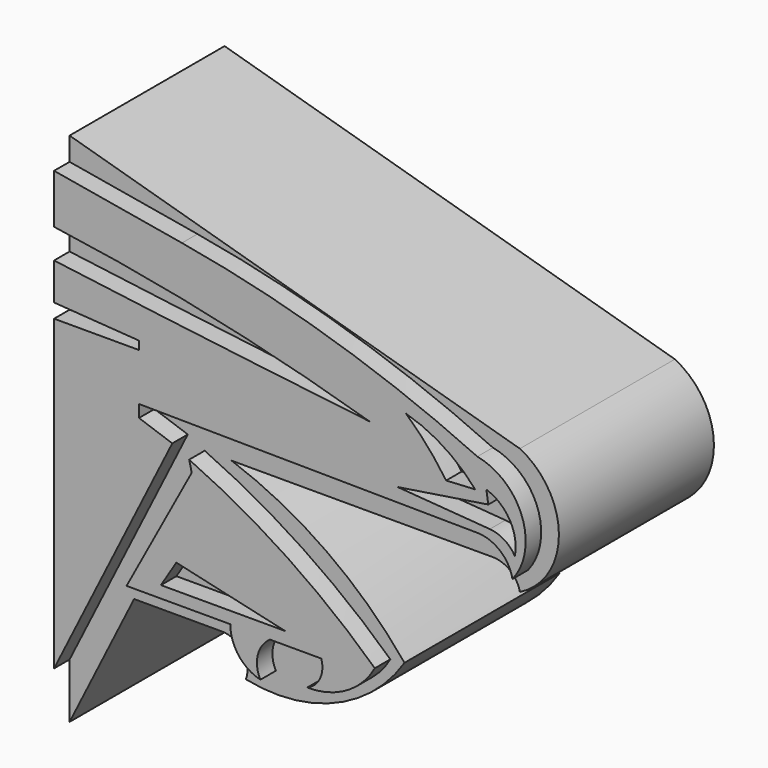
from build123d import *

# Parameters (mm, degrees)
F1_DEPTH = 25.4
F3_DEPTH = 2.54


with BuildPart() as f1:
    # F0 (on Front) → F1 (new body)
    with BuildSketch(Plane.XZ):
        with BuildLine():
            Line((4.675265, 38.648338), (4.675265, -29.022353))
            Line((4.675265, -29.022353), (13.136835, -12.086689))
            Line((13.136835, -12.086689), (24.644025, -12.086689))
            ThreePointArc((24.644025, -12.086689), (27.390181, -13.518342), (27.788887, -16.589504))
            ThreePointArc((27.788887, -16.589504), (39.534536, -15.492547), (48.578784, -7.918567))
            ThreePointArc((48.578784, -7.918567), (38.344977, 1.625304), (25.908433, 8.040027))
            Line((25.908433, 8.040027), (60.161997, 8.040027))
            ThreePointArc((60.161997, 8.040027), (62.441504, 7.233012), (63.705467, 5.171502))
            ThreePointArc((63.705467, 5.171502), (68.823481, 13.439604), (63.705467, 21.707706))
            Line((63.705467, 21.707706), (4.675265, 38.648338))
        make_face()
    extrude(amount=F1_DEPTH)

    # F2 (on face) → F3 (join)
    with BuildSketch(Plane.XZ.offset(25.4)):
        with BuildLine():
            ThreePointArc((4.675265, 29.146321), (25.516102, 25.450284), (46.005655, 20.141857))
            ThreePointArc((46.005655, 20.141857), (25.329763, 22.617176), (4.675265, 25.265086))
            Line((4.675265, 25.265086), (4.675265, 20.410509))
            Line((4.675265, 20.410509), (15.810639, 19.637108))
            Line((15.810639, 19.637108), (15.810639, 18.545922))
            Line((15.810639, 18.545922), (4.675265, 18.545922))
            Line((4.675265, 18.545922), (4.675265, -21.817246))
            Line((4.675265, -21.817246), (20.169701, 9.19456))
            Line((20.169701, 9.19456), (15.810639, 10.708986))
            Line((15.810639, 10.708986), (15.810639, 12.321869))
            Line((15.810639, 12.321869), (60.161997, 11.876815))
            ThreePointArc((60.161997, 11.876815), (63.147761, 10.778846), (64.766154, 8.040027))
            ThreePointArc((64.766154, 8.040027), (66.027213, 15.656968), (60.161997, 20.677656))
            ThreePointArc((60.161997, 20.677656), (41.195878, 27.981513), (21.435434, 32.733861))
            Line((21.435434, 32.733861), (4.675265, 35.614753))
            Line((4.675265, 35.614753), (4.675265, 29.146321))
        make_face()
        with BuildLine():
            Line((61.803415, 12.841351), (49.711283, 13.763633))
            Line((49.711283, 13.763633), (61.598465, 15.608195))
            Line((61.598465, 15.608195), (61.341725, 17.26274))
            ThreePointArc((61.341725, 17.26274), (64.422395, 14.726928), (65.082639, 10.791837))
            ThreePointArc((65.082639, 10.791837), (63.695147, 12.219986), (61.803415, 12.841351))
        make_face(mode=Mode.SUBTRACT)
        with BuildLine():
            Line((59.874482, 16.794579), (56.074578, 16.587311))
            ThreePointArc((56.074578, 16.587311), (53.621941, 19.743599), (50.823804, 22.598071))
            ThreePointArc((50.823804, 22.598071), (55.773558, 20.35821), (59.874482, 16.794579))
        make_face(mode=Mode.SUBTRACT)
        with BuildLine():
            Line((22.387989, 8.040027), (22.718249, 6.635162))
            Line((22.718249, 6.635162), (14.179533, -9.200274))
            Line((14.179533, -9.200274), (27.788887, -9.200274))
            ThreePointArc((27.788887, -9.200274), (28.86277, -12.447594), (31.722713, -14.323504))
            ThreePointArc((31.722713, -14.323504), (31.380156, -11.560312), (32.983219, -9.283744))
            Line((32.983219, -9.283744), (39.701112, -9.283744))
            ThreePointArc((39.701112, -9.283744), (39.55028, -11.611776), (37.866078, -13.22607))
            ThreePointArc((37.866078, -13.22607), (42.999226, -11.895955), (46.722099, -8.119896))
            ThreePointArc((46.722099, -8.119896), (35.211974, 0.949291), (22.387989, 8.040027))
        make_face()
        Polygon((18.681765, -7.64778), (20.700006, -4.387544), (34.982949, -7.64778), align=None, mode=Mode.SUBTRACT)
    extrude(amount=F3_DEPTH)


solid = f1.part
